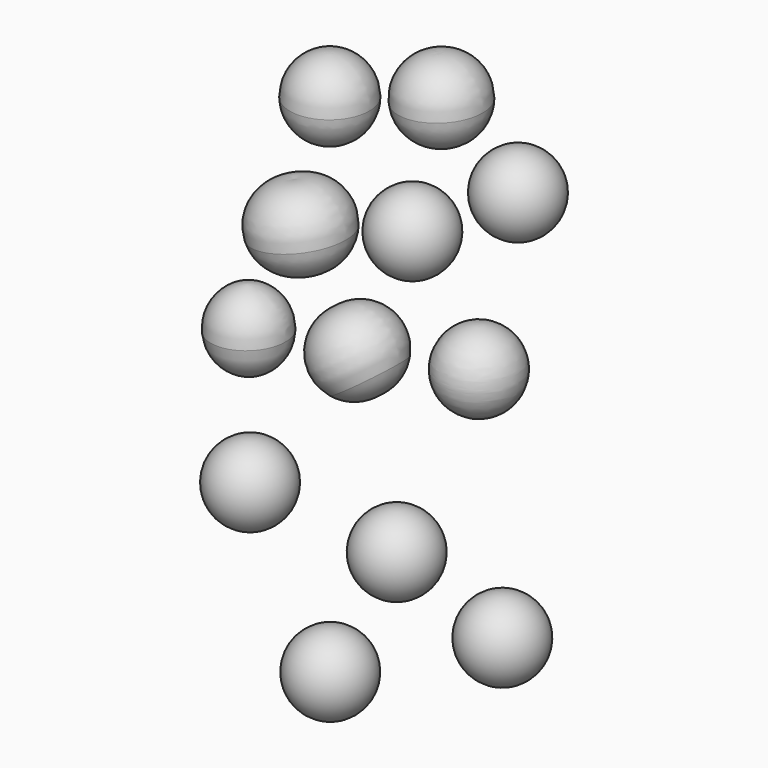
from build123d import *


with BuildPart() as f1:
    # F0 (on Front) → F1 (revolve)
    with BuildSketch(Plane.XZ):
        with BuildLine():
            Line((-24.740916189, 16.9442758067), (-23.7373716812, 10.8875541392))
            ThreePointArc((-23.7373716812, 10.8875541392), (-21.5372089315, 11.7988913896), (-20.6258716812, 13.9990541392))
            ThreePointArc((-20.6258716812, 13.9990541392), (-21.9264460182, 16.5292676664), (-24.740916189, 16.9442758067))
        make_face()
    revolve(axis=Axis((-24.3396753287, 0, 14.5226550476), (0.1634624221, 0, -0.9865495611)))


with BuildPart() as f2:
    # F0 (on Front) → F2 (revolve)
    with BuildSketch(Plane.XZ):
        with BuildLine():
            ThreePointArc((-21.8853005502, 20.5332368642), (-19.6755584709, 21.4393024795), (-18.7589724262, 23.6447015316))
            ThreePointArc((-18.7589724262, 23.6447015316), (-19.6893674098, 25.8637583487), (-21.9241423811, 26.7557386233))
            Line((-21.9241423811, 26.7557386233), (-21.8853005502, 20.5332368642))
        make_face()
    revolve(axis=Axis((-21.9097067391, 0, 24.4431337342), (0.0062420351, 0, -0.9999805183)))


with BuildPart() as f3:
    # F0 (on Front) → F3 (revolve)
    with BuildSketch(Plane.XZ):
        with BuildLine():
            Line((-13.2070442324, 29.5356636248), (-12.847124475, 23.3335504141))
            ThreePointArc((-12.847124475, 23.3335504141), (-10.6469617254, 24.2448876644), (-9.735624475, 26.4450504141))
            ThreePointArc((-9.735624475, 26.4450504141), (-10.7781220675, 28.7689827039), (-13.2070442324, 29.5356636248))
        make_face()
    revolve(axis=Axis((-13.1080136015, 0, 27.8291744096), (0.0579343238, 0, -0.9983203965)))


with BuildPart() as f4:
    # F0 (on Front) → F4 (revolve)
    with BuildSketch(Plane.XZ):
        with BuildLine():
            ThreePointArc((-6.9352760582, 24.8893041392), (-10.0467760582, 21.7778041392), (-6.9352760582, 18.6663041392))
            Line((-6.9352760582, 18.6663041392), (-6.9352760582, 24.8893041392))
        make_face()
    revolve(axis=Axis((-6.9352760582, 0, 22.5556772767), (0, 0, -1)))


with BuildPart() as f5:
    # F0 (on Front) → F5 (revolve)
    with BuildSketch(Plane.XZ):
        with BuildLine():
            ThreePointArc((-28.2558656513, 2.1902749956), (-26.2549448615, 3.1970581538), (-25.4486944461, 5.2868563743))
            ThreePointArc((-25.4486944461, 5.2868563743), (-26.3294347843, 7.4559906673), (-28.4730515608, 8.3971358421))
            Line((-28.4730515608, 8.3971358421), (-28.2558656513, 2.1902749956))
        make_face()
    revolve(axis=Axis((-28.4046198186, 0, 6.4414550971), (0.0349698627, 0, -0.9993883673)))


with BuildPart() as f6:
    # F0 (on Front) → F6 (revolve)
    with BuildSketch(Plane.XZ):
        with BuildLine():
            ThreePointArc((-17.9520897783, 4.009350298), (-16.8338485665, 5.1458533504), (-16.4253474262, 6.6870312812))
            ThreePointArc((-16.4253474262, 6.6870312812), (-18.1882410873, 9.4910807088), (-21.4793041627, 9.1177295506))
            Line((-21.4793041627, 9.1177295506), (-17.9520897783, 4.009350298))
        make_face()
    revolve(axis=Axis((-19.4547437131, 0, 6.1856076354), (0.5681907322, 0, -0.8228968902)))


with BuildPart() as f7:
    # F0 (on Front) → F7 (revolve)
    with BuildSketch(Plane.XZ):
        with BuildLine():
            Line((-15.3363241025, 13.2211791392), (-15.3363241025, 19.4441791392))
            ThreePointArc((-15.3363241025, 19.4441791392), (-18.4478241025, 16.3326791392), (-15.3363241025, 13.2211791392))
        make_face()
    revolve(axis=Axis((-15.3363241025, 0, 16.0768316775), (0, 0, -1)))


with BuildPart() as f8:
    # F0 (on Front) → F8 (revolve)
    with BuildSketch(Plane.XZ):
        with BuildLine():
            ThreePointArc((-10.0467754436, 11.509855443), (-13.1582755926, 8.3983552568), (-10.046775071, 5.286855443))
            Line((-10.046775071, 5.286855443), (-10.0467754436, 11.509855443))
        make_face()
    revolve(axis=Axis((-10.0467753318, 0, 9.6429547911), (5.99e-08, 0, -1)))


with BuildPart() as f9:
    # F0 (on Front) → F9 (revolve)
    with BuildSketch(Plane.XZ):
        with BuildLine():
            Line((-28.2490451911, -8.5593157387), (-28.2490451911, -2.3363157387))
            ThreePointArc((-28.2490451911, -2.3363157387), (-31.3605451911, -5.4478157387), (-28.2490451911, -8.5593157387))
        make_face()
    revolve(axis=Axis((-28.2490451911, 0, -4.7810137039), (0, 0, -1)))


with BuildPart() as f10:
    # F0 (on Front) → F10 (revolve)
    with BuildSketch(Plane.XZ):
        with BuildLine():
            Line((-21.8704724262, -19.7607126655), (-21.8704724262, -13.5377126655))
            ThreePointArc((-21.8704724262, -13.5377126655), (-24.9819724262, -16.6492126655), (-21.8704724262, -19.7607126655))
        make_face()
    revolve(axis=Axis((-21.8704724262, 0, -17.9261717329), (0, 0, -1)))


with BuildPart() as f11:
    # F0 (on Front) → F11 (revolve)
    with BuildSketch(Plane.XZ):
        with BuildLine():
            Line((-16.5809239163, -9.6483404593), (-16.5809239163, -3.4253404593))
            ThreePointArc((-16.5809239163, -3.4253404593), (-19.6924239163, -6.5368404593), (-16.5809239163, -9.6483404593))
        make_face()
    revolve(axis=Axis((-16.5809239163, 0, -5.9860753827), (0, 0, -1)))


with BuildPart() as f12:
    # F0 (on Front) → F12 (revolve)
    with BuildSketch(Plane.XZ):
        with BuildLine():
            Line((-8.1798754063, -12.9154141555), (-8.1798754063, -6.6924141555))
            ThreePointArc((-8.1798754063, -6.6924141555), (-11.2913754063, -9.8039141555), (-8.1798754063, -12.9154141555))
        make_face()
    revolve(axis=Axis((-8.1798754063, 0, -8.7795780273), (0, 0, -1)))


solid = Compound([f1.part, f2.part, f3.part, f4.part, f5.part, f6.part, f7.part, f8.part, f9.part, f10.part, f11.part, f12.part])
